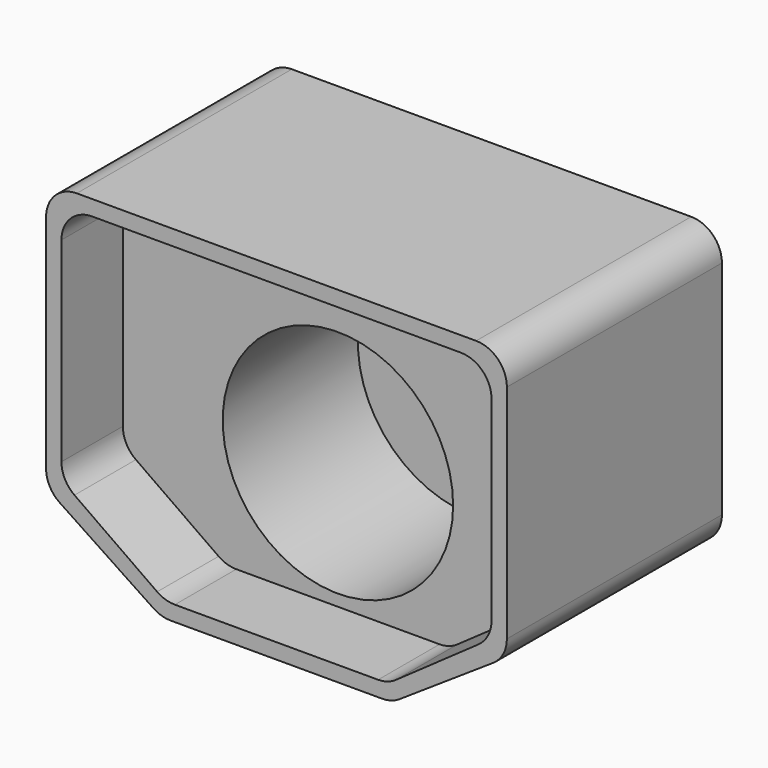
from build123d import *

# Parameters (mm, degrees)
F1_DEPTH = 35
F2_R     = 15
F3_DEPTH = 10
F4_DEPTH = 32
F5_R     = 4


with BuildPart() as f1:
    # F0 (on Front) → F1 (new body)
    with BuildSketch(Plane.XZ):
        Polygon((60, 0), (0, 0), (0, -35), (15, -45), (45, -45), (60, -35), align=None)
    extrude(amount=F1_DEPTH)

    # F2 (on face) → F3 (cut)
    with BuildSketch(Plane.XZ.offset(35)):
        Polygon((58, -2), (2, -2), (2, -33.5), (15.5, -43), (30, -43), (44.5, -43), (58, -33.5), align=None)
        with Locations((30, -26.5)):
            Circle(F2_R, mode=Mode.SUBTRACT)
    extrude(amount=-F3_DEPTH, mode=Mode.SUBTRACT)

    # F4 (cut): faces of the model
    f4_faces = [f1.faces().sort_by_distance(p)[0] for p in [
        (30, -35, -26.5),
        (30, -35, -26.5),
    ]]
    extrude(f4_faces, amount=-F4_DEPTH, mode=Mode.SUBTRACT)

    # F5
    f5_edges = [f1.edges().sort_by_distance(p)[0] for p in [
        (60, -17.5, 0),
        (60, -17.5, -35),
        (0, -17.5, 0),
        (45, -17.5, -45),
        (15, -17.5, -45),
        (0, -17.5, -35),
        (2, -30, -33.5),
        (44.5, -30, -43),
        (15.5, -30, -43),
        (58, -30, -33.5),
        (58, -30, -2),
        (2, -30, -2),
    ]]
    fillet(f5_edges, radius=F5_R)


solid = f1.part
